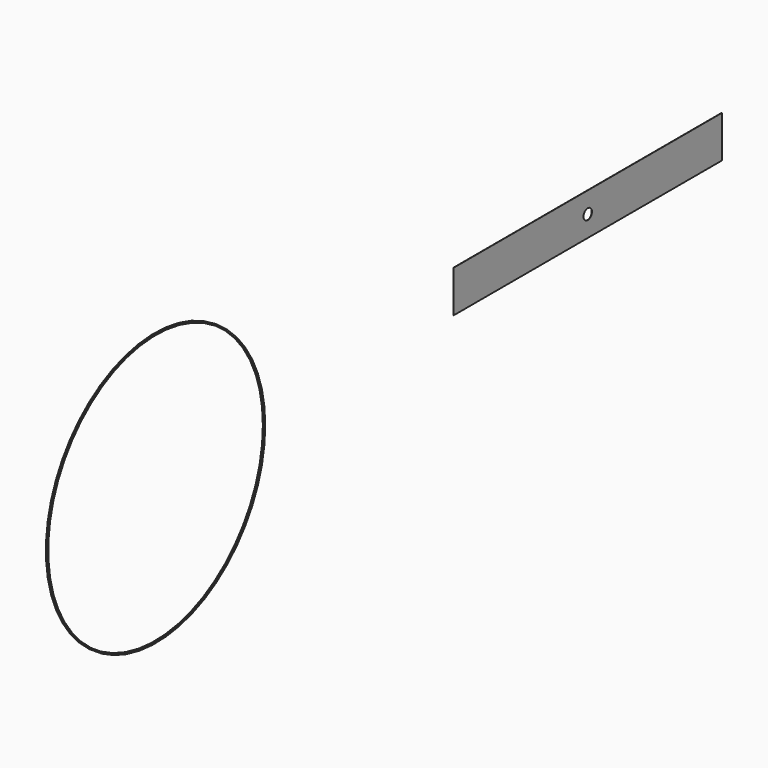
from build123d import *

# Parameters (mm, degrees)
F0_W     = 406.4
F0_H     = 50.8
F0_R     = 6.35
F1_DEPTH = 0.254
F2_R     = 165.1
F2_R_2   = 163.5125
F3_DEPTH = 1.5875


with BuildPart() as f1:
    # F0 (on Right) → F1 (new body)
    with BuildSketch(Plane.YZ):
        with Locations((203.2, 25.4)):
            Rectangle(F0_W, F0_H)
        with Locations((203.2, 25.4)):
            Circle(F0_R, mode=Mode.SUBTRACT)
    extrude(amount=F1_DEPTH)


with BuildPart() as f3:
    # F2 (on Right) → F3 (new body)
    with BuildSketch(Plane.YZ):
        with Locations((-451.962993, 0)):
            Circle(F2_R)
        with Locations((-451.962993, 0)):
            Circle(F2_R_2, mode=Mode.SUBTRACT)
    extrude(amount=F3_DEPTH)


solid = Compound([f1.part, f3.part])
